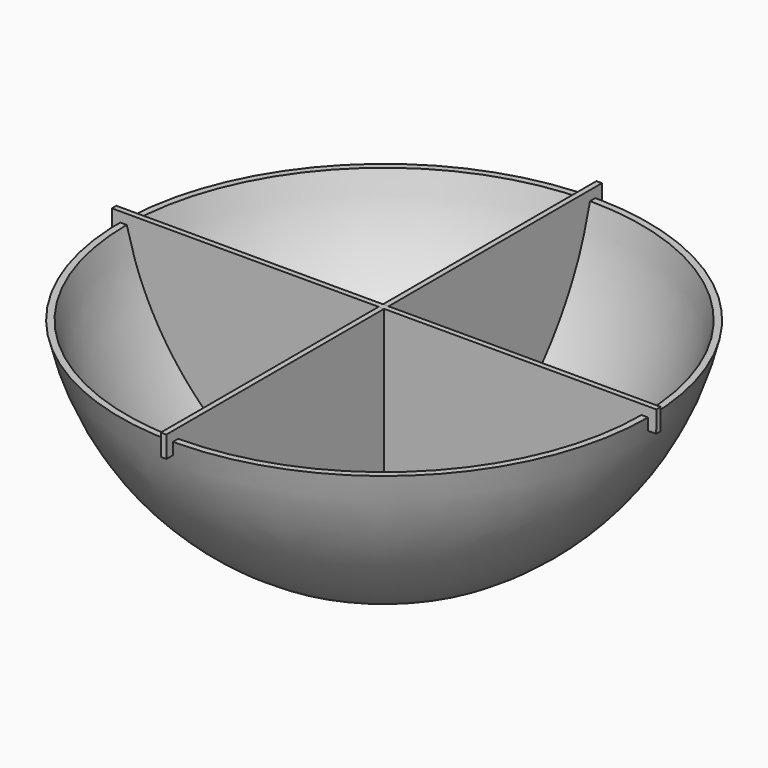
from build123d import *

# Parameters (mm, degrees)
F2_DEPTH = 3.175
F4_COUNT = 4


with BuildPart() as f1:
    # F0 (on Front) → F1 (revolve)
    with BuildSketch(Plane.XZ):
        with BuildLine():
            Line((0, 3.0734), (0, 0))
            Line((0, 0), (76.2, 0))
            ThreePointArc((76.2, 0), (125.1409198416, 44.5031946607), (152.4, 104.775))
            Line((152.4, 104.775), (148.5997491399, 104.775))
            ThreePointArc((148.5997491399, 104.775), (122.0240234364, 46.3557096025), (74.6349491399, 3.0734))
            Line((74.6349491399, 3.0734), (0, 3.0734))
        make_face()
    revolve(axis=Axis((0, 0, 52.3875), (0, 0, 1)))


with BuildPart() as f2:
    # F0 (on Front) → F2 (new body)
    with BuildSketch(Plane.XZ):
        with BuildLine():
            Line((0, 104.775), (0, 3.0734))
            Line((0, 3.0734), (74.6349491399, 3.0734))
            ThreePointArc((74.6349491399, 3.0734), (122.0240234364, 46.3557096025), (148.5997491399, 104.775))
            Line((148.5997491399, 104.775), (152.4, 104.775))
            Line((152.4, 104.775), (152.4, 97.9775339365))
            Line((152.4, 97.9775339365), (157.1050882339, 97.9775339365))
            Line((157.1050882339, 97.9775339365), (157.1745425463, 110.4164719582))
            Line((157.1745425463, 110.4164719582), (0, 110.4164719582))
            Line((0, 110.4164719582), (0, 104.775))
        make_face()
    extrude(amount=F2_DEPTH)

    # F3: F2 across face


with BuildPart() as f2_1:
    add(f2.part)
    add(f2.part.mirror(Plane(origin=(0, -1.5875, 56.7449359791), x_dir=(0, -1, 0), z_dir=(-1, 0, 0))))


with BuildPart() as f4_1:
    # F4: instance of F2
    add(f2_1.part.rotate(Axis((0, 0, 53.9242), (0, 0, -1)), 1 * 360 / F4_COUNT))


with BuildPart() as f4_2:
    # F4: instance of F2
    add(f2_1.part.rotate(Axis((0, 0, 53.9242), (0, 0, -1)), 2 * 360 / F4_COUNT))


with BuildPart() as f4_3:
    # F4: instance of F2
    add(f2_1.part.rotate(Axis((0, 0, 53.9242), (0, 0, -1)), 3 * 360 / F4_COUNT))


solid = Compound([f1.part, f4_1.part, f4_2.part])
